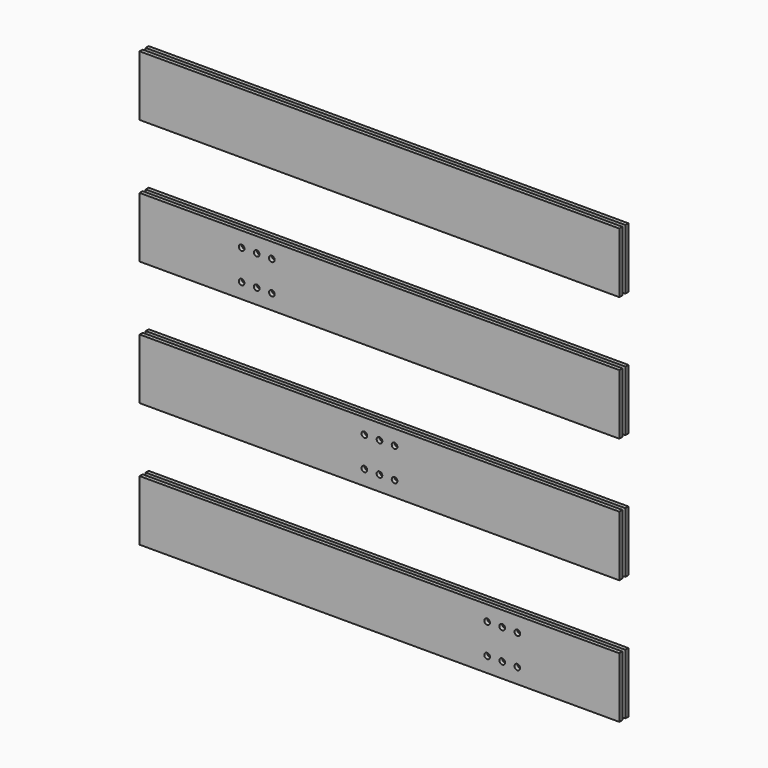
from build123d import *

# Parameters (mm, degrees)
F1_W     = 6.35
F1_H     = 101.6
F2_DEPTH = 806.45
F3_R     = 4.7625
F4_DEPTH = 19.051


with BuildPart() as f2:
    # F1 (on offset) → F2 (new body)
    with BuildSketch(Plane.YZ.offset(76.2)):
        with Locations((638.175, 1295.4)):
            Rectangle(F1_W, F1_H)
        with Locations((638.175, 1085.85)):
            Rectangle(F1_W, F1_H)
        with Locations((638.175, 876.3)):
            Rectangle(F1_W, F1_H)
        with Locations((638.175, 666.75)):
            Rectangle(F1_W, F1_H)
        with Locations((650.875, 876.3)):
            Rectangle(F1_W, F1_H)
        with Locations((650.875, 1085.85)):
            Rectangle(F1_W, F1_H)
        with Locations((650.875, 1295.4)):
            Rectangle(F1_W, F1_H)
        with Locations((650.875, 666.75)):
            Rectangle(F1_W, F1_H)
    extrude(amount=F2_DEPTH)

    # F3 (on face) → F4 (cut, through all)
    with BuildSketch(Plane.XZ.offset(-635)):
        with Locations((660.4, 692.15)):
            Circle(F3_R)
        with Locations((660.4, 641.35)):
            Circle(F3_R)
        with Locations((685.8, 692.15)):
            Circle(F3_R)
        with Locations((685.8, 641.35)):
            Circle(F3_R)
        with Locations((711.2, 692.15)):
            Circle(F3_R)
        with Locations((711.2, 641.35)):
            Circle(F3_R)
        with Locations((454.025, 901.7)):
            Circle(F3_R)
        with Locations((454.025, 850.9)):
            Circle(F3_R)
        with Locations((479.425, 901.7)):
            Circle(F3_R)
        with Locations((479.425, 850.9)):
            Circle(F3_R)
        with Locations((504.825, 901.7)):
            Circle(F3_R)
        with Locations((504.825, 850.9)):
            Circle(F3_R)
        with Locations((247.65, 1111.25)):
            Circle(F3_R)
        with Locations((247.65, 1060.45)):
            Circle(F3_R)
        with Locations((273.05, 1111.25)):
            Circle(F3_R)
        with Locations((273.05, 1060.45)):
            Circle(F3_R)
        with Locations((298.45, 1111.25)):
            Circle(F3_R)
        with Locations((298.45, 1060.45)):
            Circle(F3_R)
    extrude(amount=-F4_DEPTH, mode=Mode.SUBTRACT)


solid = f2.part
